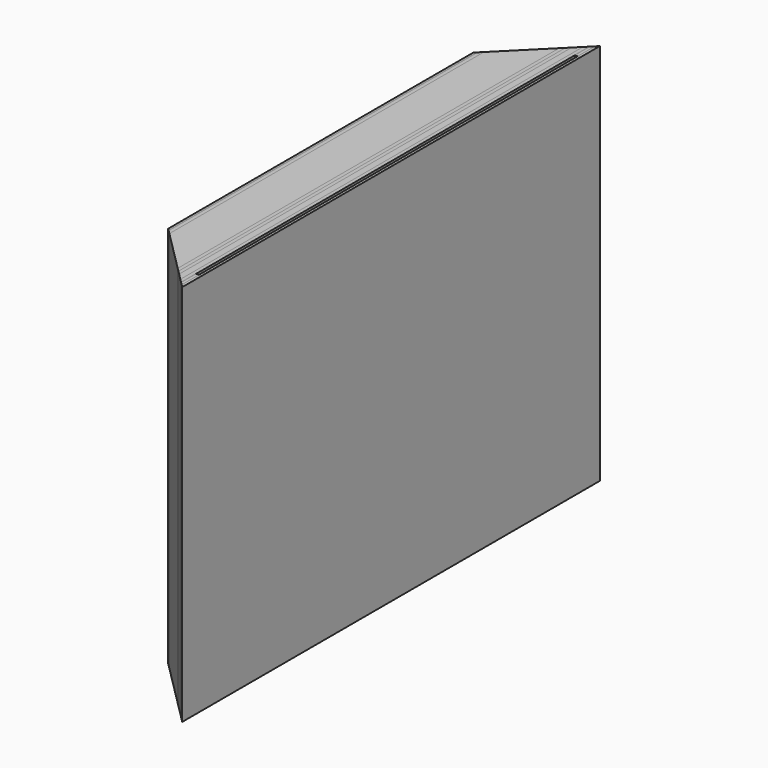
from build123d import *

# Parameters (mm, degrees)
F0_W      = 1500
F0_H      = 1100
F1_DEPTH  = 6
F2_DEPTH  = 1
F3_DEPTH  = 10
F4_DEPTH  = 120
F5_DEPTH  = 10
F6_DEPTH  = 10
F7_DEPTH  = 18
F8_DEPTH  = 10
F9_DEPTH  = 1
F10_W     = 70
F10_H     = 1100
F11_DEPTH = 8
F12_W     = 1500
F12_H     = 1100
F13_DEPTH = 8
F15_DEPTH = 1100.001


with BuildPart() as f1:
    # F0 (on Right) → F1 (new body)
    with BuildSketch(Plane.YZ):
        with Locations((750, 550)):
            Rectangle(F0_W, F0_H)
    extrude(amount=F1_DEPTH)


with BuildPart() as f2:
    # F2 (new): a face of the model
    f2_faces = [f1.part.faces().sort_by_distance(p)[0] for p in [
        (6, 750, 550),
    ]]
    extrude(f2_faces, amount=F2_DEPTH)


with BuildPart() as f3:
    # F3 (new): a face of the model
    f3_faces = [f2.part.faces().sort_by_distance(p)[0] for p in [
        (7, 750, 550),
    ]]
    extrude(f3_faces, amount=F3_DEPTH)


with BuildPart() as f4:
    # F4 (new): a face of the model
    f4_faces = [f3.part.faces().sort_by_distance(p)[0] for p in [
        (17, 750, 550),
    ]]
    extrude(f4_faces, amount=F4_DEPTH)


with BuildPart() as f5:
    # F5 (new): a face of the model
    f5_faces = [f4.part.faces().sort_by_distance(p)[0] for p in [
        (137, 750, 550),
    ]]
    extrude(f5_faces, amount=F5_DEPTH)


with BuildPart() as f6:
    # F6 (new): a face of the model
    f6_faces = [f5.part.faces().sort_by_distance(p)[0] for p in [
        (147, 750, 550),
    ]]
    extrude(f6_faces, amount=F6_DEPTH)


with BuildPart() as f7:
    # F7 (new): a face of the model
    f7_faces = [f6.part.faces().sort_by_distance(p)[0] for p in [
        (157, 750, 550),
    ]]
    extrude(f7_faces, amount=F7_DEPTH)


with BuildPart() as f8:
    # F8 (new): a face of the model
    f8_faces = [f7.part.faces().sort_by_distance(p)[0] for p in [
        (175, 750, 550),
    ]]
    extrude(f8_faces, amount=F8_DEPTH)


with BuildPart() as f9:
    # F9 (new): a face of the model
    f9_faces = [f8.part.faces().sort_by_distance(p)[0] for p in [
        (185, 750, 550),
    ]]
    extrude(f9_faces, amount=F9_DEPTH)


with BuildPart() as f11:
    # F10 (on face) → F11 (new body)
    with BuildSketch(Plane.YZ.offset(186)):
        with Locations((35, 550)):
            Rectangle(F10_W, F10_H)
    extrude(amount=F11_DEPTH)


with BuildPart() as f11b:
    # F10 (on face) → F11, piece 2 (new body)
    with BuildSketch(Plane.YZ.offset(186)):
        with Locations((1465, 550)):
            Rectangle(F10_W, F10_H)
    extrude(amount=F11_DEPTH)


with BuildPart() as f13:
    # F12 (on face) → F13 (new body)
    with BuildSketch(Plane.YZ.offset(194)):
        with Locations((750, 550)):
            Rectangle(F12_W, F12_H)
    extrude(amount=F13_DEPTH)


with BuildPart() as f15_tool:
    # F14 (on face) → F15 (new body, through all)
    with BuildSketch(Plane.XY.offset(1100)):
        Polygon((0, 1298), (202, 1500), (0, 1500), align=None)
        Polygon((202, 0), (0, 202), (0, 0), align=None)
    extrude(amount=-F15_DEPTH)


with BuildPart() as f1_1:
    add(f1.part)

    # F15: cut by f15_tool
    add(f15_tool.part, mode=Mode.SUBTRACT)


with BuildPart() as f2_1:
    add(f2.part)

    # F15: cut by f15_tool
    add(f15_tool.part, mode=Mode.SUBTRACT)


with BuildPart() as f3_1:
    add(f3.part)

    # F15: cut by f15_tool
    add(f15_tool.part, mode=Mode.SUBTRACT)


with BuildPart() as f4_1:
    add(f4.part)

    # F15: cut by f15_tool
    add(f15_tool.part, mode=Mode.SUBTRACT)


with BuildPart() as f5_1:
    add(f5.part)

    # F15: cut by f15_tool
    add(f15_tool.part, mode=Mode.SUBTRACT)


with BuildPart() as f6_1:
    add(f6.part)

    # F15: cut by f15_tool
    add(f15_tool.part, mode=Mode.SUBTRACT)


with BuildPart() as f7_1:
    add(f7.part)

    # F15: cut by f15_tool
    add(f15_tool.part, mode=Mode.SUBTRACT)


with BuildPart() as f8_1:
    add(f8.part)

    # F15: cut by f15_tool
    add(f15_tool.part, mode=Mode.SUBTRACT)


with BuildPart() as f9_1:
    add(f9.part)

    # F15: cut by f15_tool
    add(f15_tool.part, mode=Mode.SUBTRACT)


with BuildPart() as f11_1:
    add(f11.part)

    # F15: cut by f15_tool
    add(f15_tool.part, mode=Mode.SUBTRACT)


with BuildPart() as f11b_1:
    add(f11b.part)

    # F15: cut by f15_tool
    add(f15_tool.part, mode=Mode.SUBTRACT)


with BuildPart() as f13_1:
    add(f13.part)

    # F15: cut by f15_tool
    add(f15_tool.part, mode=Mode.SUBTRACT)


solid = Compound([f1_1.part, f2_1.part, f3_1.part, f4_1.part, f5_1.part, f6_1.part, f7_1.part, f8_1.part, f9_1.part, f11_1.part, f11b_1.part, f13_1.part])
